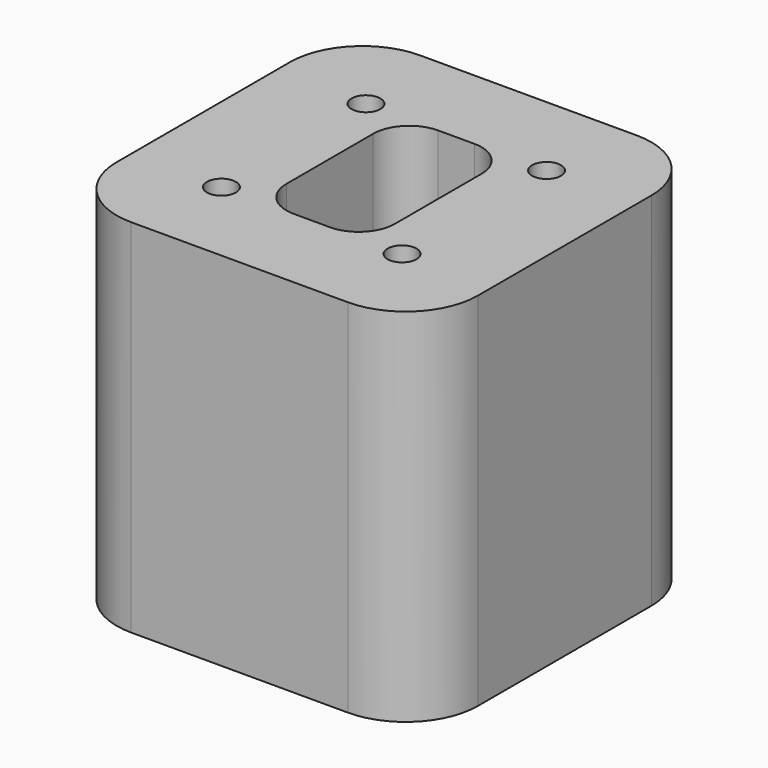
from build123d import *

# Parameters (mm, degrees)
F0_R     = 0.8
F1_DEPTH = 20


with BuildPart() as f1:
    # F0 (on Top) → F1 (new body)
    with BuildSketch(Plane.XY):
        with BuildLine():
            Line((6, 10), (-6, 10))
            ThreePointArc((-6, 10), (-8.828427, 8.828427), (-10, 6))
            Line((-10, 6), (-10, -6))
            ThreePointArc((-10, -6), (-8.828427, -8.828427), (-6, -10))
            Line((-6, -10), (6, -10))
            ThreePointArc((6, -10), (8.828427, -8.828427), (10, -6))
            Line((10, -6), (10, 6))
            ThreePointArc((10, 6), (8.828427, 8.828427), (6, 10))
        make_face()
        with Locations((-5, -5)):
            Circle(F0_R, mode=Mode.SUBTRACT)
        with Locations((5, -5)):
            Circle(F0_R, mode=Mode.SUBTRACT)
        with Locations((-5, 5)):
            Circle(F0_R, mode=Mode.SUBTRACT)
        with BuildLine():
            ThreePointArc((-3, 3), (-2.414214, 4.414214), (-1, 5))
            Line((-1, 5), (1, 5))
            ThreePointArc((1, 5), (2.414214, 4.414214), (3, 3))
            Line((3, 3), (3, -3))
            ThreePointArc((3, -3), (2.414214, -4.414214), (1, -5))
            Line((1, -5), (-1, -5))
            ThreePointArc((-1, -5), (-2.414214, -4.414214), (-3, -3))
            Line((-3, -3), (-3, 3))
        make_face(mode=Mode.SUBTRACT)
        with Locations((5, 5)):
            Circle(F0_R, mode=Mode.SUBTRACT)
    extrude(amount=F1_DEPTH)


solid = f1.part
